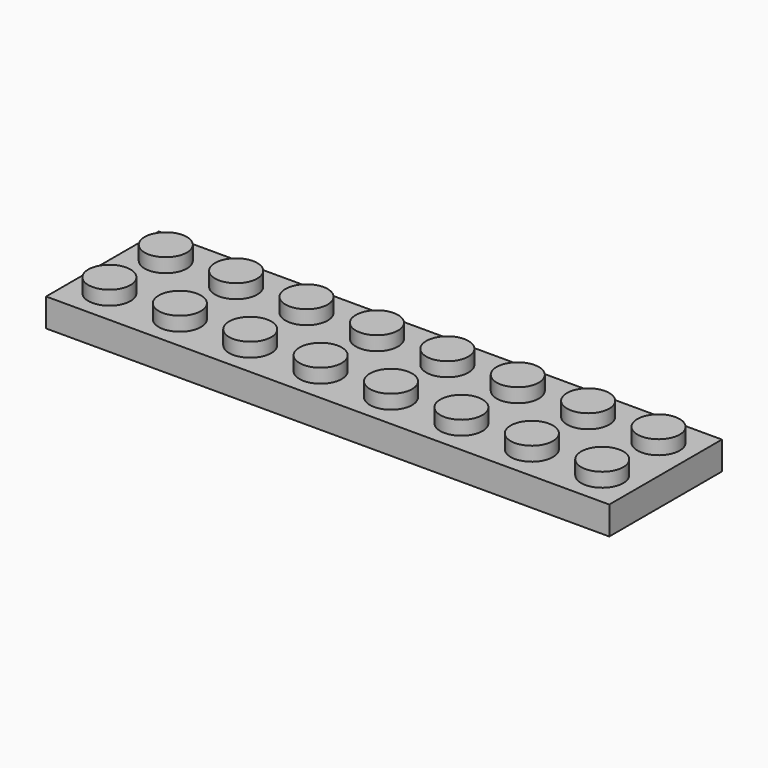
from build123d import *

# Parameters (mm, degrees)
F0_W     = 63.5
F0_H     = 15.875
F0_R     = 2.38125
F1_DEPTH = 3.175
F2_DEPTH = 4.7625
F3_T     = -1.5875
F4_R     = 3.175
F4_R_2   = 2.38125
F5_DEPTH = 1.5875


with BuildPart() as f1:
    # F0 (on Top) → F1 (new body)
    with BuildSketch(Plane.XY):
        with Locations((15.875, -3.96875)):
            Rectangle(F0_W, F0_H)
        with Locations((-11.90625, -7.9375)):
            Circle(F0_R, mode=Mode.SUBTRACT)
        with Locations((-3.96875, -7.9375)):
            Circle(F0_R, mode=Mode.SUBTRACT)
        with Locations((3.96875, -7.9375)):
            Circle(F0_R, mode=Mode.SUBTRACT)
        with Locations((11.90625, -7.9375)):
            Circle(F0_R, mode=Mode.SUBTRACT)
        with Locations((19.84375, -7.9375)):
            Circle(F0_R, mode=Mode.SUBTRACT)
        with Locations((27.78125, -7.9375)):
            Circle(F0_R, mode=Mode.SUBTRACT)
        with Locations((35.71875, -7.9375)):
            Circle(F0_R, mode=Mode.SUBTRACT)
        with Locations((43.65625, -7.9375)):
            Circle(F0_R, mode=Mode.SUBTRACT)
        with Locations((-11.90625, 0)):
            Circle(F0_R, mode=Mode.SUBTRACT)
        with Locations((-3.96875, 0)):
            Circle(F0_R, mode=Mode.SUBTRACT)
        with Locations((3.96875, 0)):
            Circle(F0_R, mode=Mode.SUBTRACT)
        with Locations((11.90625, 0)):
            Circle(F0_R, mode=Mode.SUBTRACT)
        with Locations((19.84375, 0)):
            Circle(F0_R, mode=Mode.SUBTRACT)
        with Locations((27.78125, 0)):
            Circle(F0_R, mode=Mode.SUBTRACT)
        with Locations((35.71875, 0)):
            Circle(F0_R, mode=Mode.SUBTRACT)
        with Locations((43.65625, 0)):
            Circle(F0_R, mode=Mode.SUBTRACT)
    extrude(amount=F1_DEPTH)

    # F0 (on Top) → F2 (join)
    with BuildSketch(Plane.XY):
        with Locations((-11.90625, 0)):
            Circle(F0_R)
        with Locations((-11.90625, -7.9375)):
            Circle(F0_R)
        with Locations((-3.96875, -7.9375)):
            Circle(F0_R)
        with Locations((-3.96875, 0)):
            Circle(F0_R)
        with Locations((3.96875, 0)):
            Circle(F0_R)
        with Locations((3.96875, -7.9375)):
            Circle(F0_R)
        with Locations((11.90625, -7.9375)):
            Circle(F0_R)
        with Locations((11.90625, 0)):
            Circle(F0_R)
        with Locations((19.84375, 0)):
            Circle(F0_R)
        with Locations((27.78125, 0)):
            Circle(F0_R)
        with Locations((27.78125, -7.9375)):
            Circle(F0_R)
        with Locations((19.84375, -7.9375)):
            Circle(F0_R)
        with Locations((35.71875, 0)):
            Circle(F0_R)
        with Locations((43.65625, 0)):
            Circle(F0_R)
        with Locations((43.65625, -7.9375)):
            Circle(F0_R)
        with Locations((35.71875, -7.9375)):
            Circle(F0_R)
    extrude(amount=F2_DEPTH)

    # F3
    f3_openings = [f1.faces().sort_by_distance(p)[0] for p in [
        (15.875, -3.96875, 0),
    ]]
    offset(amount=F3_T, openings=f3_openings, kind=Kind.INTERSECTION)

    # F4 (on face) → F5 (join)
    with BuildSketch(Plane(origin=(0, 0, 1.5875), x_dir=(1, 0, 0), z_dir=(0, 0, -1))):
        with BuildLine():
            ThreePointArc((-4.7625, 3.96875), (-6.7224801022, 6.9020675157), (-10.1825640303, 6.2138140303))
            Line((-10.1825640303, 6.2138140303), (-9.6212980227, 5.6525480227))
            ThreePointArc((-9.6212980227, 5.6525480227), (-7.0262350767, 6.1687381368), (-5.55625, 3.96875))
            ThreePointArc((-5.55625, 3.96875), (-5.7375118632, 3.0574850767), (-6.2537019773, 2.2849519773))
            Line((-6.2537019773, 2.2849519773), (-5.6924359697, 1.7236859697))
            ThreePointArc((-5.6924359697, 1.7236859697), (-5.0041824843, 2.7537301022), (-4.7625, 3.96875))
        make_face()
        with BuildLine():
            Line((-9.6212980227, 5.6525480227), (-10.1825640303, 6.2138140303))
            ThreePointArc((-10.1825640303, 6.2138140303), (-10.1825640303, 1.7236859697), (-5.6924359697, 1.7236859697))
            Line((-5.6924359697, 1.7236859697), (-6.2537019773, 2.2849519773))
            ThreePointArc((-6.2537019773, 2.2849519773), (-9.6212980227, 2.2849519773), (-9.6212980227, 5.6525480227))
        make_face()
        with Locations((0, 3.96875)):
            Circle(F4_R)
        with Locations((0, 3.96875)):
            Circle(F4_R_2, mode=Mode.SUBTRACT)
        with Locations((7.9375, 3.96875)):
            Circle(F4_R)
        with Locations((7.9375, 3.96875)):
            Circle(F4_R_2, mode=Mode.SUBTRACT)
        with Locations((15.875, 3.96875)):
            Circle(F4_R)
        with Locations((15.875, 3.96875)):
            Circle(F4_R_2, mode=Mode.SUBTRACT)
        with Locations((23.8125, 3.96875)):
            Circle(F4_R)
        with Locations((23.8125, 3.96875)):
            Circle(F4_R_2, mode=Mode.SUBTRACT)
        with Locations((31.75, 3.96875)):
            Circle(F4_R)
        with Locations((31.75, 3.96875)):
            Circle(F4_R_2, mode=Mode.SUBTRACT)
        with Locations((39.6875, 3.96875)):
            Circle(F4_R)
        with Locations((39.6875, 3.96875)):
            Circle(F4_R_2, mode=Mode.SUBTRACT)
    extrude(amount=F5_DEPTH)


solid = f1.part
